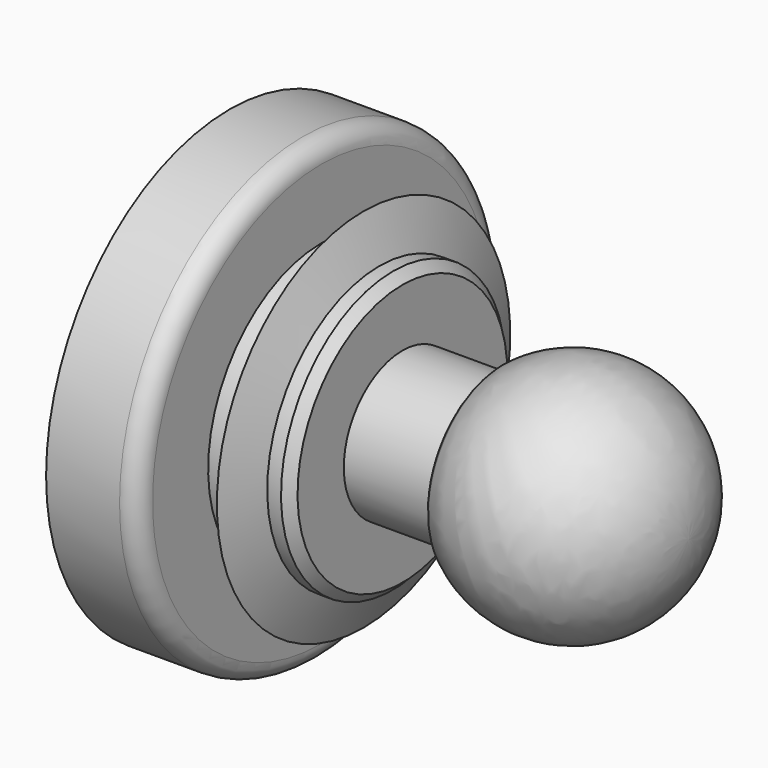
from build123d import *

# Parameters (mm, degrees)
F2_R    = 0.508
F3_R    = 0.508
F4_SIZE = 0.254


with BuildPart() as f1:
    # F0 (on Front) → F1 (revolve)
    with BuildSketch(Plane.XZ):
        with BuildLine():
            Line((-12.7, 0), (0, 0))
            ThreePointArc((0, 0), (-1.872948, 2.941347), (-5.323115, 2.435581))
            Line((-5.323115, 2.435581), (-5.323115, 2.027367))
            Line((-5.323115, 2.027367), (-7.920302, 2.027367))
            Line((-7.920302, 2.027367), (-7.920302, 2.435581))
            Line((-7.920302, 2.435581), (-7.920302, 3.882198))
            Line((-7.920302, 3.882198), (-8.555302, 3.882198))
            Line((-8.555302, 3.882198), (-8.995197, 5.073581))
            Line((-8.995197, 5.073581), (-9.525, 3.919367))
            Line((-9.525, 3.919367), (-10.16, 3.919367))
            Line((-10.16, 3.919367), (-10.16, 6.35))
            Line((-10.16, 6.35), (-12.7, 6.35))
            Line((-12.7, 6.35), (-12.7, 0))
        make_face()
    revolve(axis=Axis((-6.35, 0, 0), (-1, 0, 0)))

    # F2
    f2_edges = [f1.edges().sort_by_distance(p)[0] for p in [
        (-5.323115, 0, -2.435581),
    ]]
    fillet(f2_edges, radius=F2_R)

    # F3
    f3_edges = [f1.edges().sort_by_distance(p)[0] for p in [
        (-10.16, 0, -6.35),
    ]]
    fillet(f3_edges, radius=F3_R)

    # F4
    f4_edges = [f1.edges().sort_by_distance(p)[0] for p in [
        (-7.920302, 0, -3.882198),
    ]]
    chamfer(f4_edges, length=F4_SIZE)


solid = f1.part
